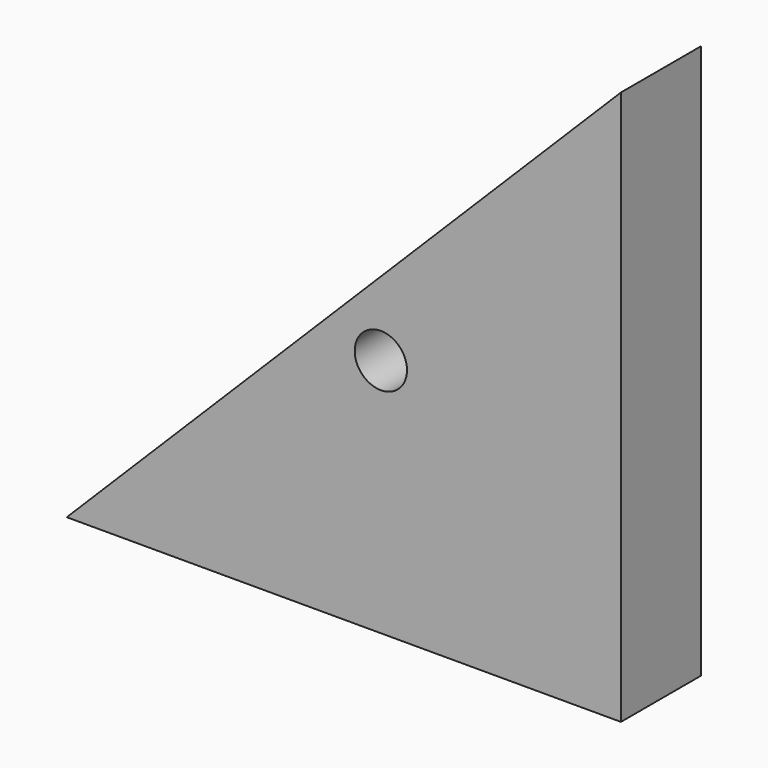
from build123d import *

# Parameters (mm, degrees)
F0_R     = 3.175
F1_DEPTH = 6.096
F2_R     = 1.6002
F3_DEPTH = 7.62
F4_R     = 2.0193
F5_DEPTH = 12.7
F6_R     = 2.0193
F7_DEPTH = 19.05
F8_R     = 1.6002
F9_DEPTH = 7.62


with BuildPart() as f1:
    # F0 (on Front) → F1 (new body, symmetric)
    with BuildSketch(Plane.XZ):
        Polygon((-67.31, 0), (0, 0), (0, 67.31), align=None)
        with Locations((-29.1592, 29.1592)):
            Circle(F0_R, mode=Mode.SUBTRACT)
    extrude(amount=F1_DEPTH, both=True)

    # F2 (on face) → F3 (cut)
    with BuildSketch(Plane(origin=(-33.655, 0, 33.655), x_dir=(0, -1, 0), z_dir=(-0.7071067812, 0, 0.7071067812))):
        with Locations((0, 35.1493574417)):
            Circle(F2_R)
        with Locations((0, -34.9546425583)):
            Circle(F2_R)
    extrude(amount=-F3_DEPTH, mode=Mode.SUBTRACT)

    # F4 (on face) → F5 (cut)
    with BuildSketch(Plane(origin=(-33.655, 0, 33.655), x_dir=(0, -1, 0), z_dir=(-0.7071067812, 0, 0.7071067812))):
        with Locations((0, 25.6243574417)):
            Circle(F4_R)
        with Locations((0, -25.4296425583)):
            Circle(F4_R)
    extrude(amount=-F5_DEPTH, mode=Mode.SUBTRACT)

    # F6 (on face) → F7 (cut)
    with BuildSketch(Plane(origin=(0, 0, 0), x_dir=(1, 0, 0), z_dir=(0, 0, -1))):
        with Locations((-6.35, 0)):
            Circle(F6_R)
        with Locations((-38.1, 0)):
            Circle(F6_R)
    extrude(amount=-F7_DEPTH, mode=Mode.SUBTRACT)

    # F8 (on face) → F9 (cut)
    with BuildSketch(Plane(origin=(0, 0, 0), x_dir=(1, 0, 0), z_dir=(0, 0, -1))):
        with Locations((-12.7, 0)):
            Circle(F8_R)
        with Locations((-50.165, 0)):
            Circle(F8_R)
    extrude(amount=-F9_DEPTH, mode=Mode.SUBTRACT)


solid = f1.part
